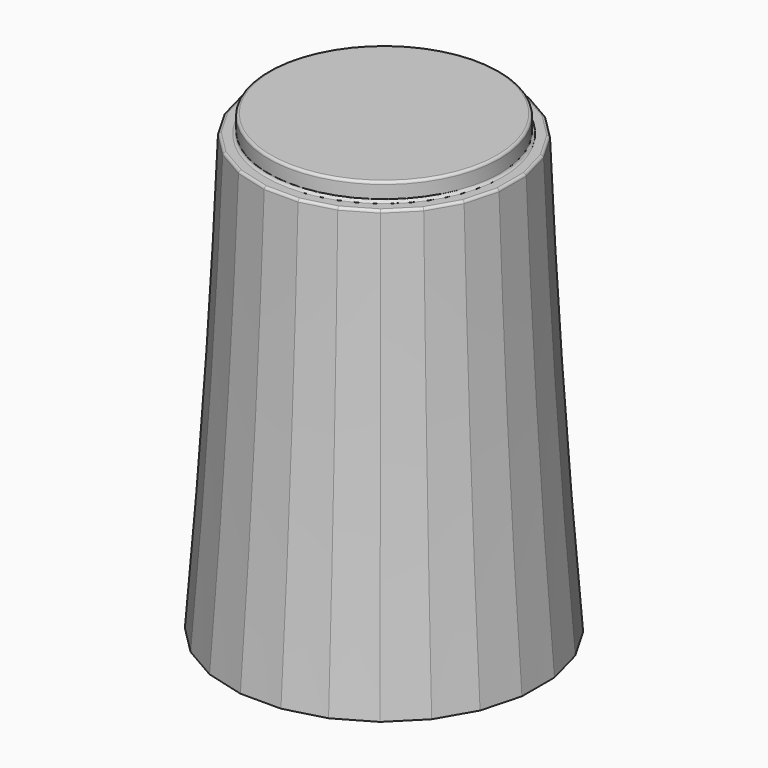
from build123d import *

# Parameters (mm, degrees)
SKETCH104_R     = 4.5
PAD024_DEPTH    = 0.7
SKETCH103_R     = 5
POCKET040_DEPTH = 1
SKETCH101_R     = 4.65
POCKET039_DEPTH = 1
POCKET041_DEPTH = 8
CHAMFER029_SIZE = 1.4
CHAMFER028_SIZE = 0.3
FILLET013_R     = 0.1


with BuildPart() as part:
    # Sketch109 → AdditiveLoft009 section 0
    with BuildSketch(Plane.XY):
        Polygon((-0.789915, 6), (-2.315914, 5.59111), (-3.684086, 4.801195), (-4.801195, 3.684086), (-5.59111, 2.315914), (-6, 0.789915), (-6, -0.789915), (-5.59111, -2.315914), (-4.801195, -3.684086), (-3.684086, -4.801195), (-2.315914, -5.59111), (-0.789915, -6), (0.789915, -6), (2.315914, -5.59111), (3.684086, -4.801195), (4.801195, -3.684086), (5.59111, -2.315914), (6, -0.789915), (6, 0.789915), (5.59111, 2.315914), (4.801195, 3.684086), (3.684086, 4.801195), (2.315914, 5.59111), (0.789915, 6), align=None)
    # Sketch108 → AdditiveLoft009 section 1
    with BuildSketch(Plane.XY.offset(7)):
        Polygon((-0.724089, 5.5), (-2.122921, 5.125184), (-3.377079, 4.401095), (-4.401095, 3.377079), (-5.125184, 2.122921), (-5.5, 0.724089), (-5.5, -0.724089), (-5.125184, -2.122921), (-4.401095, -3.377079), (-3.377079, -4.401095), (-2.122921, -5.125184), (-0.724089, -5.5), (0.724089, -5.5), (2.122921, -5.125184), (3.377079, -4.401095), (4.401095, -3.377079), (5.125184, -2.122921), (5.5, -0.724089), (5.5, 0.724089), (5.125184, 2.122921), (4.401095, 3.377079), (3.377079, 4.401095), (2.122921, 5.125184), (0.724089, 5.5), align=None)
    # Sketch110 → AdditiveLoft009 section 2
    with BuildSketch(Plane.XY.offset(17)):
        Polygon((-4.659258, 1.929928), (-5, 0.658262), (-5, -0.658262), (-4.659258, -1.929928), (-4.000996, -3.070072), (-3.070072, -4.000996), (-1.929928, -4.659258), (-0.658262, -5), (0.658262, -5), (1.929928, -4.659258), (3.070072, -4.000996), (4.000996, -3.070072), (4.659258, -1.929928), (5, -0.658262), (5, 0.658262), (4.659258, 1.929928), (4.000996, 3.070072), (3.070072, 4.000996), (1.929928, 4.659258), (0.658262, 5), (-0.658262, 5), (-1.929928, 4.659258), (-3.070072, 4.000996), (-4.000996, 3.070072), align=None)
    loft()

    # Sketch104 (on Face3 of AdditiveLoft009) → Pad024 (new body)
    with BuildSketch(Plane.XY.offset(17)):
        Circle(SKETCH104_R)
    extrude(amount=PAD024_DEPTH)

    # Sketch103 (on Face1 of Pad024) → Pocket040 (cut)
    with BuildSketch(Plane(origin=(0, 0, 0), x_dir=(1, 0, 0), z_dir=(0, 0, -1))):
        Circle(SKETCH103_R)
    extrude(amount=-POCKET040_DEPTH, mode=Mode.SUBTRACT)

    # Sketch101 (on Face28 of Pocket040) → Pocket039 (cut)
    with BuildSketch(Plane(origin=(0, 0, 1), x_dir=(1, 0, 0), z_dir=(0, 0, -1))):
        Circle(SKETCH101_R)
    extrude(amount=-POCKET039_DEPTH, mode=Mode.SUBTRACT)

    # Sketch102 (on Face32 of Pocket039) → Pocket041 (cut)
    with BuildSketch(Plane(origin=(0, 0, 2), x_dir=(1, 0, 0), z_dir=(0, 0, -1))):
        with BuildLine():
            ThreePointArc((-1.741757, 2.442598), (0, -3), (1.741757, 2.442598))
            Line((-1.741757, 2.442598), (1.741757, 2.442598))
        make_face()
    extrude(amount=-POCKET041_DEPTH, mode=Mode.SUBTRACT)

    # Chamfer029
    chamfer029_edges = [part.edges().sort_by_distance(p)[0] for p in [
        (0, 3, 2),
        (0, -2.442598, 2),
    ]]
    chamfer(chamfer029_edges, length=CHAMFER029_SIZE)

    # Chamfer028
    chamfer028_edges = [part.edges().sort_by_distance(p)[0] for p in [
        (-4.65, 0, 1),
    ]]
    chamfer(chamfer028_edges, length=CHAMFER028_SIZE)

    # Fillet013
    fillet013_edges = [part.edges().sort_by_distance(p)[0] for p in [
        (-4.5, 0, 17.7),
        (-4.829629, 1.294095, 17),
        (-4.330127, 2.5, 17),
        (-5, 0, 17),
        (-3.535534, 3.535534, 17),
        (-4.829629, -1.294095, 17),
        (-2.5, 4.330127, 17),
        (-4.330127, -2.5, 17),
        (-1.294095, 4.829629, 17),
        (-3.535534, -3.535534, 17),
        (0, 5, 17),
        (-2.5, -4.330127, 17),
        (1.294095, 4.829629, 17),
        (-1.294095, -4.829629, 17),
        (2.5, 4.330127, 17),
        (0, -5, 17),
        (3.535534, 3.535534, 17),
        (1.294095, -4.829629, 17),
        (4.330127, 2.5, 17),
        (2.5, -4.330127, 17),
        (4.829629, 1.294095, 17),
        (3.535534, -3.535534, 17),
        (5, 0, 17),
        (4.330127, -2.5, 17),
        (4.829629, -1.294095, 17),
        (-4.5, 0, 17),
    ]]
    fillet(fillet013_edges, radius=FILLET013_R)


solid = part.part
